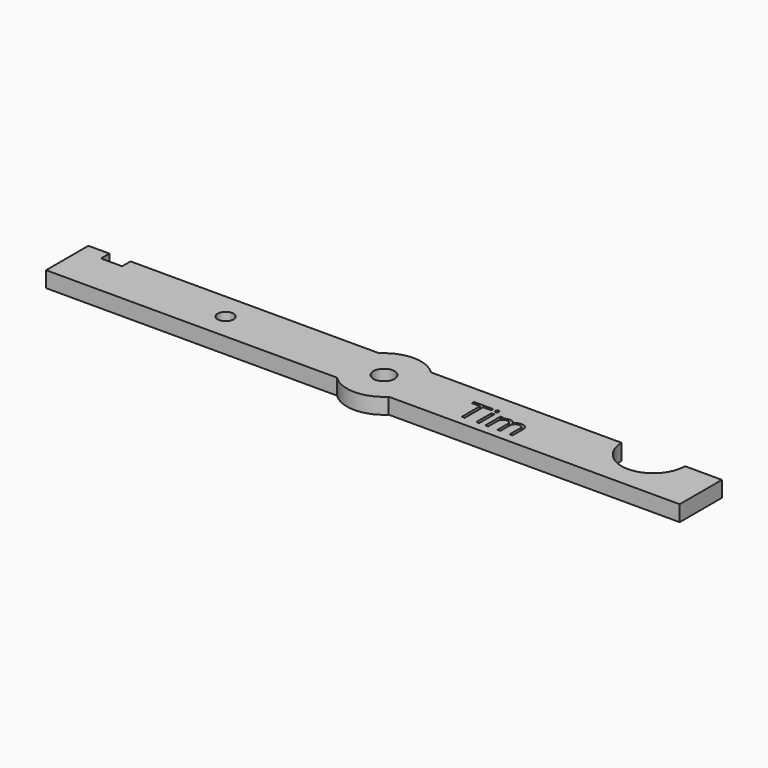
from build123d import *

# Parameters (mm, degrees)
F0_R     = 1.5
F0_R_2   = 2
F0_W     = 0.5472596904
F0_H     = 3.6114921765
F1_DEPTH = 3


with BuildPart() as f1:
    # F0 (on Top) → F1 (new body)
    with BuildSketch(Plane.XY):
        with BuildLine():
            Line((4.8989794856, -5), (-4.8989794856, -5))
            ThreePointArc((-4.8989794856, -5), (0, -7), (4.8989794856, -5))
        make_face()
        with BuildLine():
            ThreePointArc((4.8989794856, 5), (0, 7), (-4.8989794856, 5))
            Line((-4.8989794856, 5), (4.8989794856, 5))
        make_face()
        with BuildLine():
            Line((-60, 5), (-60, -5))
            Line((-60, -5), (-4.8989794856, -5))
            ThreePointArc((-4.8989794856, -5), (-7, 0), (-4.8989794856, 5))
            Line((-4.8989794856, 5), (-52, 5))
            Line((-52, 5), (-52, 3))
            Line((-52, 3), (-56, 3))
            Line((-56, 3), (-56, 5))
            Line((-56, 5), (-60, 5))
        make_face()
        with Locations((-30, 0)):
            Circle(F0_R, mode=Mode.SUBTRACT)
        with BuildLine():
            ThreePointArc((-4.8989794856, 5), (-7, 0), (-4.8989794856, -5))
            Line((-4.8989794856, -5), (4.8989794856, -5))
            ThreePointArc((4.8989794856, -5), (6.4534043883, -2.7117470016), (7, 0))
            ThreePointArc((7, 0), (6.4534043883, 2.7117470016), (4.8989794856, 5))
            Line((4.8989794856, 5), (-4.8989794856, 5))
        make_face()
        Circle(F0_R_2, mode=Mode.SUBTRACT)
        with BuildLine():
            ThreePointArc((7, 0), (6.4534043883, -2.7117470016), (4.8989794856, -5))
            Line((4.8989794856, -5), (60, -5))
            Line((60, -5), (60, 5))
            Line((60, 5), (53, 5))
            ThreePointArc((53, 5), (47, -1), (41, 5))
            Line((41, 5), (4.8989794856, 5))
            ThreePointArc((4.8989794856, 5), (6.4534043883, 2.7117470016), (7, 0))
        make_face()
        with Locations((20.3390103817, -1.4335251428)):
            Rectangle(F0_W, F0_H, mode=Mode.SUBTRACT)
        with BuildLine():
            Line((26.9224706456, -3.239271231), (26.3762654055, -3.239271231))
            Line((26.3762654055, -3.239271231), (26.3762654055, -0.8899560283))
            add(Edge.make_bspline(
                [(26.3762654055, -0.8899560283), (26.3762654055, -0.4576314174), (26.1917366082, -0.2419963371)],
                knots=[0, 0, 0, 1, 1, 1], degree=2))
            add(Edge.make_bspline(
                [(26.1917366082, -0.2419963371), (26.0072078108, -0.0263612568), (25.618115661, -0.0263612568)],
                knots=[0, 0, 0, 1, 1, 1], degree=2))
            add(Edge.make_bspline(
                [(25.618115661, -0.0263612568), (25.1077617301, -0.0263612568), (24.8636564925, -0.319498432)],
                knots=[0, 0, 0, 1, 1, 1], degree=2))
            add(Edge.make_bspline(
                [(24.8636564925, -0.319498432), (24.6195512548, -0.6126356072), (24.6195512548, -1.2221078635)],
                knots=[0, 0, 0, 1, 1, 1], degree=2))
            Line((24.6195512548, -1.2221078635), (24.6195512548, -3.239271231))
            Line((24.6195512548, -3.239271231), (24.0722915645, -3.239271231))
            Line((24.0722915645, -3.239271231), (24.0722915645, -0.8899560283))
            add(Edge.make_bspline(
                [(24.0722915645, -0.8899560283), (24.0722915645, -0.4576314174), (23.8877627671, -0.2419963371)],
                knots=[0, 0, 0, 1, 1, 1], degree=2))
            add(Edge.make_bspline(
                [(23.8877627671, -0.2419963371), (23.7032339698, -0.0263612568), (23.3109784692, -0.0263612568)],
                knots=[0, 0, 0, 1, 1, 1], degree=2))
            add(Edge.make_bspline(
                [(23.3109784692, -0.0263612568), (22.7974611874, -0.0263612568), (22.5586282011, -0.3342607358)],
                knots=[0, 0, 0, 1, 1, 1], degree=2))
            add(Edge.make_bspline(
                [(22.5586282011, -0.3342607358), (22.3197952149, -0.6421602147), (22.3197952149, -1.3444240949)],
                knots=[0, 0, 0, 1, 1, 1], degree=2))
            Line((22.3197952149, -1.3444240949), (22.3197952149, -3.239271231))
            Line((22.3197952149, -3.239271231), (21.7725355245, -3.239271231))
            Line((21.7725355245, -3.239271231), (21.7725355245, 0.3722209455))
            Line((21.7725355245, 0.3722209455), (22.2175135386, 0.3722209455))
            Line((22.2175135386, 0.3722209455), (22.3060873614, -0.1223162314))
            Line((22.3060873614, -0.1223162314), (22.3324486181, -0.1223162314))
            add(Edge.make_bspline(
                [(22.3324486181, -0.1223162314), (22.4874528079, 0.1412963362), (22.7695182552, 0.2899738244)],
                knots=[0, 0, 0, 1, 1, 1], degree=2))
            add(Edge.make_bspline(
                [(22.7695182552, 0.2899738244), (23.0515837026, 0.4386513125), (23.4006067421, 0.4386513125)],
                knots=[0, 0, 0, 1, 1, 1], degree=2))
            add(Edge.make_bspline(
                [(23.4006067421, 0.4386513125), (24.2473303094, 0.4386513125), (24.5077795262, -0.1750387449)],
                knots=[0, 0, 0, 1, 1, 1], degree=2))
            Line((24.5077795262, -0.1750387449), (24.5341407829, -0.1750387449))
            add(Edge.make_bspline(
                [(24.5341407829, -0.1750387449), (24.6954716743, 0.1086083779), (25.0017894779, 0.2736298452)],
                knots=[0, 0, 0, 1, 1, 1], degree=2))
            add(Edge.make_bspline(
                [(25.0017894779, 0.2736298452), (25.3081072815, 0.4386513125), (25.7003627821, 0.4386513125)],
                knots=[0, 0, 0, 1, 1, 1], degree=2))
            add(Edge.make_bspline(
                [(25.7003627821, 0.4386513125), (26.3129983893, 0.4386513125), (26.6177345175, 0.1238979068)],
                knots=[0, 0, 0, 1, 1, 1], degree=2))
            add(Edge.make_bspline(
                [(26.6177345175, 0.1238979068), (26.9224706456, -0.190855499), (26.9224706456, -0.8836293267)],
                knots=[0, 0, 0, 1, 1, 1], degree=2))
            Line((26.9224706456, -0.8836293267), (26.9224706456, -3.239271231))
        make_face(mode=Mode.SUBTRACT)
        Polygon((17.8963763301, 1.0808115273), (17.8963763301, -3.239271231), (17.3364632365, -3.239271231), (17.3364632365, 1.0808115273), (15.810673695, 1.0808115273), (15.810673695, 1.5785120549), (19.4221658715, 1.5785120549), (19.4221658715, 1.0808115273), align=None, mode=Mode.SUBTRACT)
        with BuildLine():
            add(Edge.make_bspline(
                [(20.1112491233, 1.0755392759), (20.0189847246, 1.1662219992), (20.0189847246, 1.3507507965)],
                knots=[0, 0, 0, 1, 1, 1], degree=2))
            add(Edge.make_bspline(
                [(20.0189847246, 1.3507507965), (20.0189847246, 1.5384429447), (20.1112491233, 1.6259623171)],
                knots=[0, 0, 0, 1, 1, 1], degree=2))
            add(Edge.make_bspline(
                [(20.1112491233, 1.6259623171), (20.203513522, 1.7134816896), (20.3427009577, 1.7134816896)],
                knots=[0, 0, 0, 1, 1, 1], degree=2))
            add(Edge.make_bspline(
                [(20.3427009577, 1.7134816896), (20.4745072415, 1.7134816896), (20.569934991, 1.6243806417)],
                knots=[0, 0, 0, 1, 1, 1], degree=2))
            add(Edge.make_bspline(
                [(20.569934991, 1.6243806417), (20.6653627404, 1.5352795939), (20.6653627404, 1.3507507965)],
                knots=[0, 0, 0, 1, 1, 1], degree=2))
            add(Edge.make_bspline(
                [(20.6653627404, 1.3507507965), (20.6653627404, 1.1662219992), (20.569934991, 1.0755392759)],
                knots=[0, 0, 0, 1, 1, 1], degree=2))
            add(Edge.make_bspline(
                [(20.569934991, 1.0755392759), (20.4745072415, 0.9848565527), (20.3427009577, 0.9848565527)],
                knots=[0, 0, 0, 1, 1, 1], degree=2))
            add(Edge.make_bspline(
                [(20.3427009577, 0.9848565527), (20.203513522, 0.9848565527), (20.1112491233, 1.0755392759)],
                knots=[0, 0, 0, 1, 1, 1], degree=2))
        make_face(mode=Mode.SUBTRACT)
    extrude(amount=F1_DEPTH)


solid = f1.part
